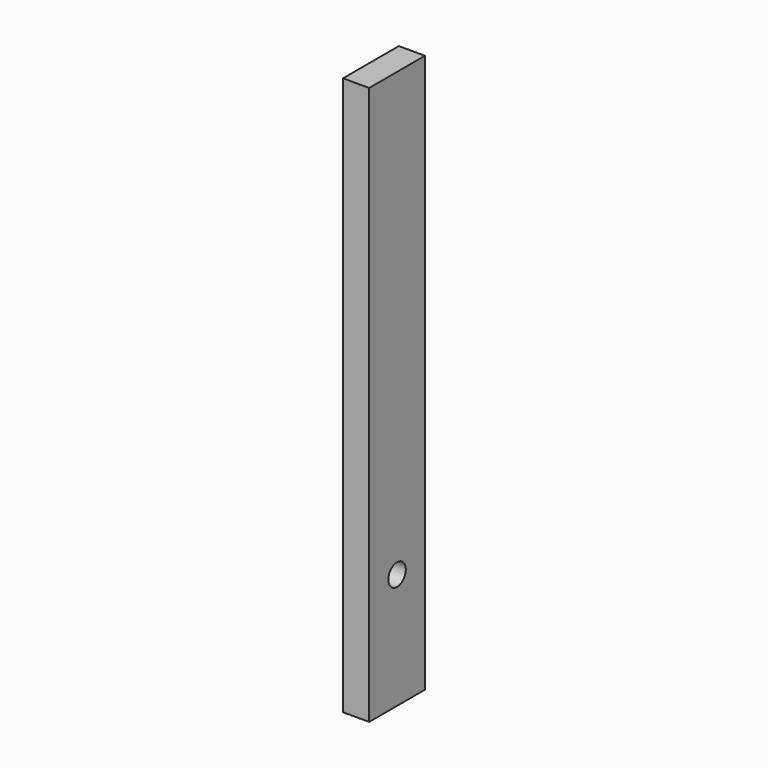
from build123d import *

# Parameters (mm, degrees)
F0_W      = 50.8
F0_H      = 50.8
F1_DEPTH  = 406.4
F1_FACE_W = 50.8
F1_FACE_H = 406.4
F2_DEPTH  = 31.75
F3_R      = 7.9375
F4_DEPTH  = 19.05


with BuildPart() as f1:
    # F0 (on Top) → F1 (new body)
    with BuildSketch(Plane.XY):
        with Locations((-62.744076, -41.949181)):
            Rectangle(F0_W, F0_H)
    extrude(amount=F1_DEPTH)

    # F1_face (on face) → F2 (cut)
    with BuildSketch(Plane(origin=(-37.344076, -41.949181, 203.2), x_dir=(0, 1, 0), z_dir=(1, 0, 0))):
        Rectangle(F1_FACE_W, F1_FACE_H)
    extrude(amount=-F2_DEPTH, mode=Mode.SUBTRACT)

    # F3 (on face) → F4 (cut)
    with BuildSketch(Plane(origin=(-88.144076, 0, 0), x_dir=(0, -1, 0), z_dir=(-1, 0, 0))):
        with Locations((41.949181, 84.1375)):
            Circle(F3_R)
    extrude(amount=-F4_DEPTH, mode=Mode.SUBTRACT)


solid = f1.part
